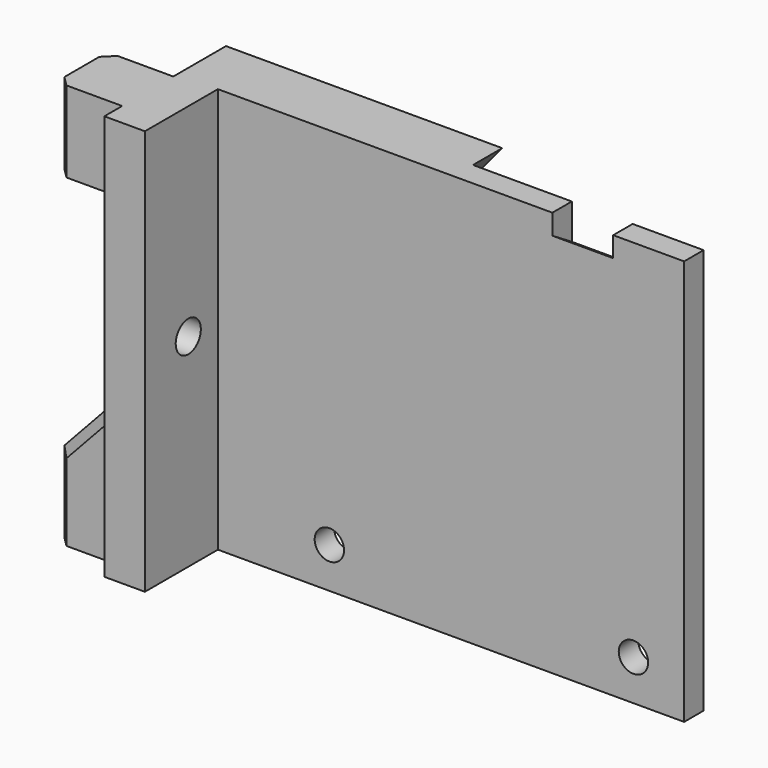
from build123d import *

# Parameters (mm, degrees)
SKETCH_W        = 50
SKETCH_H        = 40
PAD_DEPTH       = 15
SKETCH001_R     = 1.45
POCKET_DEPTH    = 12
POCKET001_DEPTH = 3.6
SKETCH003_W     = 6
SKETCH003_H     = 2
POCKET002_DEPTH = 15
SKETCH004_W     = 6.3
SKETCH004_H     = 8
PAD001_DEPTH    = 6.5
SKETCH005_W     = 70
SKETCH005_H     = 60
POCKET003_DEPTH = 9
SKETCH006_R     = 1.55
POCKET004_DEPTH = 5
SKETCH018_W     = 3
SKETCH018_H     = 3
POCKET010_DEPTH = 22
POCKET011_DEPTH = 6
PAD007_DEPTH    = 6.3
CHAMFER_SIZE    = 1


with BuildPart() as part:
    # Sketch (on XZ_Plane of Origin) → Pad (new body)
    with BuildSketch(Plane.XZ):
        with Locations((25, 20)):
            Rectangle(SKETCH_W, SKETCH_H)
    extrude(amount=PAD_DEPTH)

    # Sketch001 (on Face5 of Pad) → Pocket (cut)
    with BuildSketch(Plane(origin=(0, 0, 0), x_dir=(-1, 0, 0), z_dir=(0, 1, 0))):
        with Locations((-45, 4)):
            Circle(SKETCH001_R)
        with Locations((-15, 4)):
            Circle(SKETCH001_R)
    extrude(amount=-POCKET_DEPTH, mode=Mode.SUBTRACT)

    # Sketch002 (on Face4 of Pocket) → Pocket001 (cut)
    with BuildSketch(Plane(origin=(0, 0, 0), x_dir=(-1, 0, 0), z_dir=(0, 1, 0))):
        Polygon((-2.5, 0), (-56.5, 0), (-56.5, 40), (-27.253439, 40), (-2.5, 10.5), align=None)
    extrude(amount=-POCKET001_DEPTH, mode=Mode.SUBTRACT)

    # Sketch003 (on Face4 of Pocket001) → Pocket002 (cut)
    with BuildSketch(Plane(origin=(0, 0, 0), x_dir=(-1, 0, 0), z_dir=(0, 1, 0))):
        with Locations((-40, 39)):
            Rectangle(SKETCH003_W, SKETCH003_H)
    extrude(amount=-POCKET002_DEPTH, mode=Mode.SUBTRACT)

    # Sketch004 (on Face1 of Pocket002) → Pad001 (join)
    with BuildSketch(Plane(origin=(0, 0, 0), x_dir=(0, -1, 0), z_dir=(-1, 0, 0))):
        with Locations((9.65, 4)):
            Rectangle(SKETCH004_W, SKETCH004_H)
        with Locations((9.65, 36)):
            Rectangle(SKETCH004_W, SKETCH004_H)
    extrude(amount=PAD001_DEPTH)

    # Sketch005 (on Face6 of Pad001) → Pocket003 (cut)
    with BuildSketch(Plane.XZ.offset(15)):
        with Locations((39, 22)):
            Rectangle(SKETCH005_W, SKETCH005_H)
    extrude(amount=-POCKET003_DEPTH, mode=Mode.SUBTRACT)

    # Sketch006 (on Face1 of Pocket003) → Pocket004 (cut)
    with BuildSketch(Plane(origin=(0, 0, 0), x_dir=(0, -1, 0), z_dir=(-1, 0, 0))):
        with Locations((9.65, 20)):
            Circle(SKETCH006_R)
    extrude(amount=-POCKET004_DEPTH, mode=Mode.SUBTRACT)

    # Sketch018 (on Face21 of Pocket004) → Pocket010 (cut)
    with BuildSketch(Plane.YZ.offset(50)):
        with Locations((-0.3, 38.5)):
            Rectangle(SKETCH018_W, SKETCH018_H)
    extrude(amount=-POCKET010_DEPTH, mode=Mode.SUBTRACT)

    # Sketch019 (on Face15 of Pocket010) → Pocket011 (cut)
    with BuildSketch(Plane.YZ.offset(37)):
        Polygon((-6, 38), (-3.6, 36.5), (-3.6, 38), align=None)
    extrude(amount=POCKET011_DEPTH, mode=Mode.SUBTRACT)

    # Sketch020 (on Face10 of Pocket011) → Pad007 (join)
    with BuildSketch(Plane.XZ.offset(12.8)):
        Polygon((0, 8), (-6.5, 8), (0, 15), align=None)
    extrude(amount=-PAD007_DEPTH)

    # Chamfer
    chamfer_edges = [part.edges().sort_by_distance(p)[0] for p in [
        (-6.5, -12.8, 4),
        (-6.5, -6.5, 4),
        (-6.5, -12.8, 36),
        (-6.5, -6.5, 36),
        (-3.25, -12.8, 11.5),
        (-3.25, -6.5, 11.5),
    ]]
    chamfer(chamfer_edges, length=CHAMFER_SIZE)


solid = part.part
